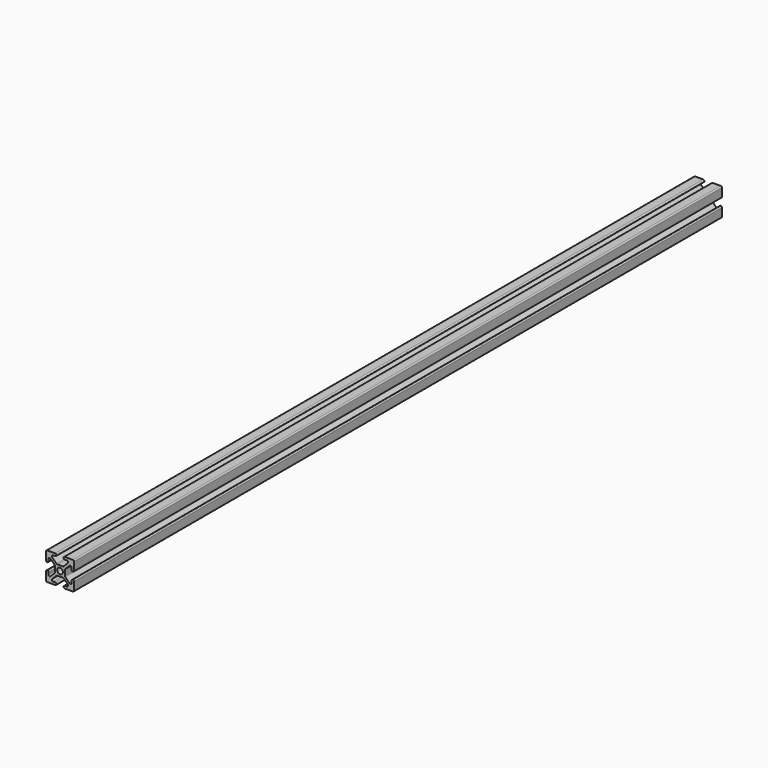
from build123d import *

# Parameters (mm, degrees)
F1_DEPTH = 736.6
F2_R     = 2.6035
F3_DEPTH = 736.601


with BuildPart() as f1:
    # F0 (on Front) → F1 (new body)
    with BuildSketch(Plane.XZ):
        with BuildLine():
            Line((-4.5085, 0), (0, 0))
            Line((0, 0), (0, 4.5085))
            Line((0, 4.5085), (-2.54, 4.5085))
            ThreePointArc((-2.54, 4.5085), (-2.957967, 4.591639), (-3.312302, 4.828398))
            Line((-3.312302, 4.828398), (-7.109602, 8.625698))
            ThreePointArc((-7.109602, 8.625698), (-7.346361, 9.815967), (-6.3373, 10.4902))
            Line((-6.3373, 10.4902), (-4.3307, 10.4902))
            ThreePointArc((-4.3307, 10.4902), (-3.558398, 10.810098), (-3.2385, 11.5824))
            Line((-3.2385, 11.5824), (-3.2385, 11.6078))
            ThreePointArc((-3.2385, 11.6078), (-3.558398, 12.380102), (-4.3307, 12.7))
            Line((-4.3307, 12.7), (-11.6078, 12.7))
            ThreePointArc((-11.6078, 12.7), (-12.380102, 12.380102), (-12.7, 11.6078))
            Line((-12.7, 11.6078), (-12.7, 4.3434))
            ThreePointArc((-12.7, 4.3434), (-12.380102, 3.571098), (-11.6078, 3.2512))
            Line((-11.6078, 3.2512), (-11.5824, 3.2512))
            ThreePointArc((-11.5824, 3.2512), (-10.810098, 3.571098), (-10.4902, 4.3434))
            Line((-10.4902, 4.3434), (-10.4902, 6.244363))
            ThreePointArc((-10.4902, 6.244363), (-9.815967, 7.253424), (-8.625698, 7.016665))
            Line((-8.625698, 7.016665), (-4.828398, 3.219365))
            ThreePointArc((-4.828398, 3.219365), (-4.591639, 2.86503), (-4.5085, 2.447063))
            Line((-4.5085, 2.447063), (-4.5085, 0))
        make_face()
        with BuildLine():
            Line((0, 4.5085), (0, 0))
            Line((0, 0), (4.5085, 0))
            Line((4.5085, 0), (4.5085, 2.447063))
            ThreePointArc((4.5085, 2.447063), (4.591639, 2.86503), (4.828398, 3.219365))
            Line((4.828398, 3.219365), (8.625698, 7.016665))
            ThreePointArc((8.625698, 7.016665), (9.815967, 7.253424), (10.4902, 6.244363))
            Line((10.4902, 6.244363), (10.4902, 4.3434))
            ThreePointArc((10.4902, 4.3434), (10.810098, 3.571098), (11.5824, 3.2512))
            Line((11.5824, 3.2512), (11.6078, 3.2512))
            ThreePointArc((11.6078, 3.2512), (12.380102, 3.571098), (12.7, 4.3434))
            Line((12.7, 4.3434), (12.7, 11.6078))
            ThreePointArc((12.7, 11.6078), (12.380102, 12.380102), (11.6078, 12.7))
            Line((11.6078, 12.7), (4.3307, 12.7))
            ThreePointArc((4.3307, 12.7), (3.558398, 12.380102), (3.2385, 11.6078))
            Line((3.2385, 11.6078), (3.2385, 11.5824))
            ThreePointArc((3.2385, 11.5824), (3.558398, 10.810098), (4.3307, 10.4902))
            Line((4.3307, 10.4902), (6.3373, 10.4902))
            ThreePointArc((6.3373, 10.4902), (7.346361, 9.815967), (7.109602, 8.625698))
            Line((7.109602, 8.625698), (3.312302, 4.828398))
            ThreePointArc((3.312302, 4.828398), (2.957967, 4.591639), (2.54, 4.5085))
            Line((2.54, 4.5085), (0, 4.5085))
        make_face()
        with BuildLine():
            Line((4.5085, 0), (0, 0))
            Line((0, 0), (0, -4.5085))
            Line((0, -4.5085), (2.54, -4.5085))
            ThreePointArc((2.54, -4.5085), (2.957967, -4.591639), (3.312302, -4.828398))
            Line((3.312302, -4.828398), (7.109602, -8.625698))
            ThreePointArc((7.109602, -8.625698), (7.346361, -9.815967), (6.3373, -10.4902))
            Line((6.3373, -10.4902), (4.3307, -10.4902))
            ThreePointArc((4.3307, -10.4902), (3.558398, -10.810098), (3.2385, -11.5824))
            Line((3.2385, -11.5824), (3.2385, -11.6078))
            ThreePointArc((3.2385, -11.6078), (3.558398, -12.380102), (4.3307, -12.7))
            Line((4.3307, -12.7), (11.6078, -12.7))
            ThreePointArc((11.6078, -12.7), (12.380102, -12.380102), (12.7, -11.6078))
            Line((12.7, -11.6078), (12.7, -4.3434))
            ThreePointArc((12.7, -4.3434), (12.380102, -3.571098), (11.6078, -3.2512))
            Line((11.6078, -3.2512), (11.5824, -3.2512))
            ThreePointArc((11.5824, -3.2512), (10.810098, -3.571098), (10.4902, -4.3434))
            Line((10.4902, -4.3434), (10.4902, -6.244363))
            ThreePointArc((10.4902, -6.244363), (9.815967, -7.253424), (8.625698, -7.016665))
            Line((8.625698, -7.016665), (4.828398, -3.219365))
            ThreePointArc((4.828398, -3.219365), (4.591639, -2.86503), (4.5085, -2.447063))
            Line((4.5085, -2.447063), (4.5085, 0))
        make_face()
        with BuildLine():
            Line((0, -4.5085), (0, 0))
            Line((0, 0), (-4.5085, 0))
            Line((-4.5085, 0), (-4.5085, -2.447063))
            ThreePointArc((-4.5085, -2.447063), (-4.591639, -2.86503), (-4.828398, -3.219365))
            Line((-4.828398, -3.219365), (-8.625698, -7.016665))
            ThreePointArc((-8.625698, -7.016665), (-9.815967, -7.253424), (-10.4902, -6.244363))
            Line((-10.4902, -6.244363), (-10.4902, -4.3434))
            ThreePointArc((-10.4902, -4.3434), (-10.810098, -3.571098), (-11.5824, -3.2512))
            Line((-11.5824, -3.2512), (-11.6078, -3.2512))
            ThreePointArc((-11.6078, -3.2512), (-12.380102, -3.571098), (-12.7, -4.3434))
            Line((-12.7, -4.3434), (-12.7, -11.6078))
            ThreePointArc((-12.7, -11.6078), (-12.380102, -12.380102), (-11.6078, -12.7))
            Line((-11.6078, -12.7), (-4.3307, -12.7))
            ThreePointArc((-4.3307, -12.7), (-3.558398, -12.380102), (-3.2385, -11.6078))
            Line((-3.2385, -11.6078), (-3.2385, -11.5824))
            ThreePointArc((-3.2385, -11.5824), (-3.558398, -10.810098), (-4.3307, -10.4902))
            Line((-4.3307, -10.4902), (-6.3373, -10.4902))
            ThreePointArc((-6.3373, -10.4902), (-7.346361, -9.815967), (-7.109602, -8.625698))
            Line((-7.109602, -8.625698), (-3.312302, -4.828398))
            ThreePointArc((-3.312302, -4.828398), (-2.957967, -4.591639), (-2.54, -4.5085))
            Line((-2.54, -4.5085), (0, -4.5085))
        make_face()
    extrude(amount=-F1_DEPTH)

    # F2 (on face) → F3 (cut, through all)
    with BuildSketch(Plane.XZ):
        Circle(F2_R)
    extrude(amount=-F3_DEPTH, mode=Mode.SUBTRACT)


solid = f1.part
